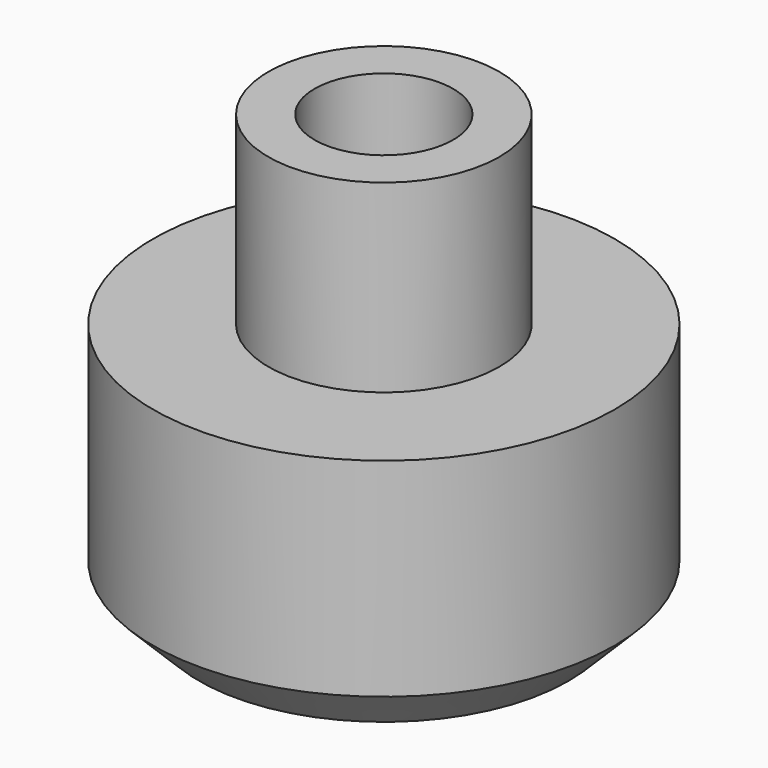
from build123d import *

# Parameters (mm, degrees)
F0_R     = 10
F1_DEPTH = 11
F2_R     = 5
F3_DEPTH = 8
F5_D     = 6
F5_DEPTH = 12
F5_TIP   = 1.8025818571
F6_SIZE  = 2


with BuildPart() as f1:
    # F0 (on Top) → F1 (new body)
    with BuildSketch(Plane.XY):
        Circle(F0_R)
    extrude(amount=F1_DEPTH)

    # F2 (on face) → F3 (join)
    with BuildSketch(Plane.XY.offset(11)):
        Circle(F2_R)
    extrude(amount=F3_DEPTH)

    # F5
    with Locations(Plane.XY.offset(19)):
        with Locations((0, 0)):
            Hole(F5_D / 2, depth=F5_DEPTH)
            with Locations((0, 0, -(F5_DEPTH + F5_TIP / 2))):  # 118° drill point
                Cone(0, F5_D / 2, F5_TIP, mode=Mode.SUBTRACT)

    # F6
    f6_edges = [f1.edges().sort_by_distance(p)[0] for p in [
        (-10, 0, 0),
    ]]
    chamfer(f6_edges, length=F6_SIZE)


solid = f1.part
